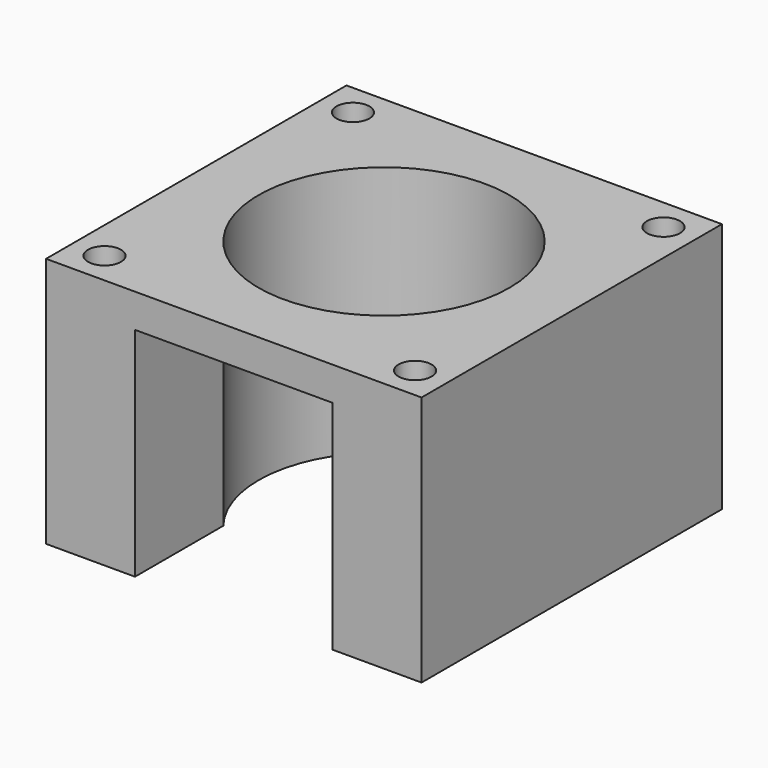
from build123d import *

# Parameters (mm, degrees)
F0_W     = 56.9976
F0_H     = 56.9976
F1_DEPTH = 38.1
F3_DEPTH = 28.4988
F4_R     = 19.05
F5_DEPTH = 38.101
F6_R     = 2.49936
F7_DEPTH = 38.101


with BuildPart() as f1:
    # F0 (on Top) → F1 (new body)
    with BuildSketch(Plane.XY):
        Rectangle(F0_W, F0_H)
    extrude(amount=F1_DEPTH)

    # F2 (on face) → F3 (cut)
    with BuildSketch(Plane.XZ.offset(28.4988)):
        Polygon((-14.9987, 0), (0, 0), (14.9987, 0), (14.9987, 32.9946), (-14.9987, 32.9946), align=None)
    extrude(amount=-F3_DEPTH, mode=Mode.SUBTRACT)

    # F4 (on face) → F5 (cut, through all)
    with BuildSketch(Plane.XY.offset(38.1)):
        Circle(F4_R)
    extrude(amount=-F5_DEPTH, mode=Mode.SUBTRACT)

    # F6 (on face) → F7 (cut, through all)
    with BuildSketch(Plane.XY.offset(38.1)):
        with Locations((-23.5712, 23.5712)):
            Circle(F6_R)
        with Locations((23.5712, 23.5712)):
            Circle(F6_R)
        with Locations((23.5712, -23.5712)):
            Circle(F6_R)
        with Locations((-23.5712, -23.5712)):
            Circle(F6_R)
    extrude(amount=-F7_DEPTH, mode=Mode.SUBTRACT)


solid = f1.part
